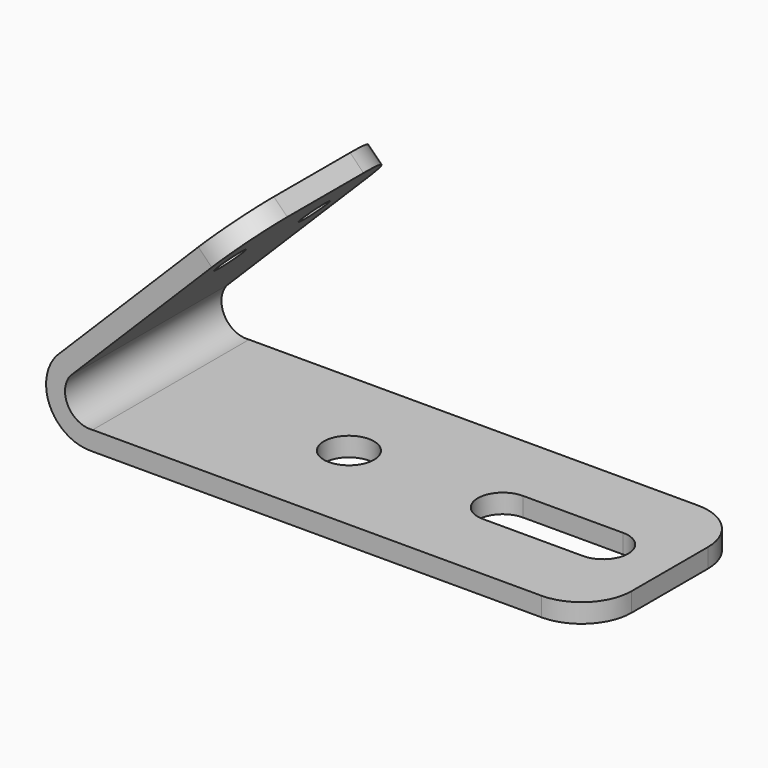
from build123d import *

# Parameters (mm, degrees)
F1_DEPTH = 247.65
F2_R     = 63.5
F2_W     = 254
F2_H     = 127
F3_DEPTH = 48.261
F4_R     = 38.1
F5_DEPTH = 218.44
F6_R     = 127


with BuildPart() as f1:
    # F0 (on Front) → F1 (new body, symmetric)
    with BuildSketch(Plane.XZ):
        with BuildLine():
            ThreePointArc((-85.393344, 183.85906), (-101.36096, 64.6829), (0, 0))
            Line((0, 0), (1270, 0))
            Line((1270, 0), (1270, 48.26))
            Line((1270, 48.26), (6.174015, 48.26))
            ThreePointArc((6.174015, 48.26), (-55.52241, 80.333411), (-51.264285, 149.738173))
            Line((-51.264285, 149.738173), (397.744435, 598.746893))
            Line((397.744435, 598.746893), (363.619462, 632.871866))
            Line((363.619462, 632.871866), (-85.393344, 183.85906))
        make_face()
    extrude(amount=F1_DEPTH, both=True)

    # F2 (on face) → F3 (cut, through all)
    with BuildSketch(Plane.XY.offset(48.26)):
        with Locations((457.2, 0)):
            Circle(F2_R)
        with Locations((974.09, 0)):
            Rectangle(F2_W, F2_H)
        with BuildLine():
            Line((847.09, -63.5), (847.09, 63.5))
            ThreePointArc((847.09, 63.5), (783.59, 0), (847.09, -63.5))
        make_face()
        with BuildLine():
            ThreePointArc((1101.09, -63.5), (1164.59, 0), (1101.09, 63.5))
            Line((1101.09, 63.5), (1101.09, -63.5))
        make_face()
    extrude(amount=-F3_DEPTH, mode=Mode.SUBTRACT)

    # F4 (on face) → F5 (cut)
    with BuildSketch(Plane(origin=(-134.626202, 0, 134.626202), x_dir=(0, -1, 0), z_dir=(-0.707107, 0, 0.707107))):
        with Locations((-133.35, 514.125775)):
            Circle(F4_R)
        with Locations((133.35, 514.125775)):
            Circle(F4_R)
    extrude(amount=-F5_DEPTH, mode=Mode.SUBTRACT)

    # F6
    f6_edges = [f1.edges().sort_by_distance(p)[0] for p in [
        (380.681949, -247.65, 615.809379),
        (380.681949, 247.65, 615.809379),
        (1270, 247.65, 24.13),
        (1270, -247.65, 24.13),
    ]]
    fillet(f6_edges, radius=F6_R)


solid = f1.part
